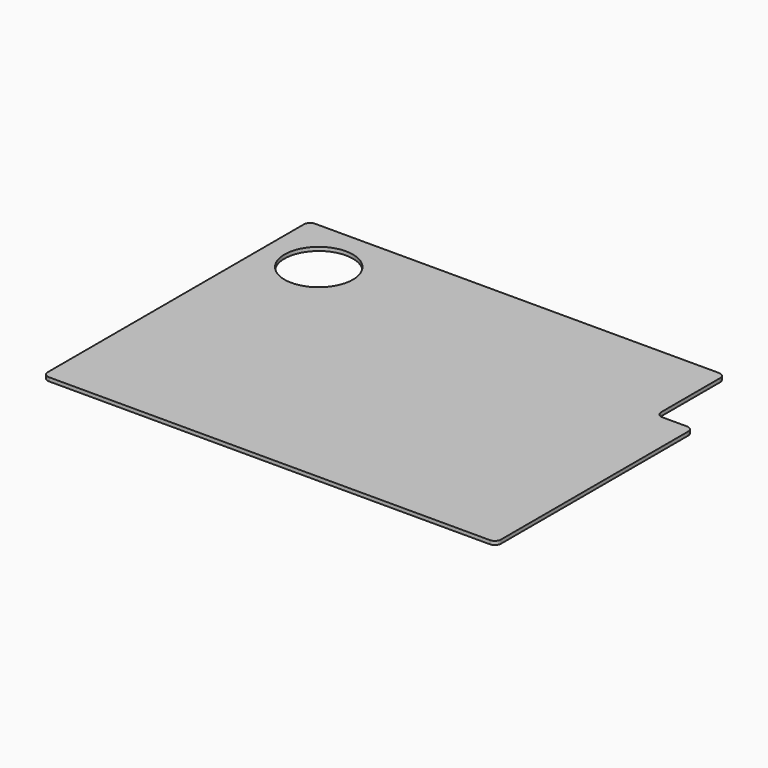
from build123d import *

# Parameters (mm, degrees)
PAD012_DEPTH         = 3
SKETCH090_R          = 27.75
POCKET039_DEPTH      = 0.001
POCKET039_DEPTH_BACK = 3.001
POCKET040_DEPTH      = 0.001
POCKET040_DEPTH_BACK = 3.001


with BuildPart() as part:
    # Sketch089 → Pad012 (new body)
    with BuildSketch(Plane.XY):
        with BuildLine():
            ThreePointArc((-184, -130), (-182.535534, -133.535534), (-179, -135))
            Line((179, -135), (-179, -135))
            ThreePointArc((179, -135), (182.535534, -133.535534), (184, -130))
            Line((184, 130), (184, -130))
            ThreePointArc((184, 130), (182.535534, 133.535534), (179, 135))
            Line((-179, 135), (179, 135))
            ThreePointArc((-179, 135), (-182.535534, 133.535534), (-184, 130))
            Line((-184, -130), (-184, 130))
        make_face()
    extrude(amount=PAD012_DEPTH)

    # Sketch090 → Pocket039 (cut, two sides)
    with BuildSketch(Plane(origin=(-140, 90, 0), x_dir=(1, 0, 0), z_dir=(0, 0, 1))) as pocket039_sk:
        Circle(SKETCH090_R)
    extrude(amount=-POCKET039_DEPTH, mode=Mode.SUBTRACT)
    extrude(pocket039_sk.sketch, amount=POCKET039_DEPTH_BACK, mode=Mode.SUBTRACT)

    # Sketch091 → Pocket040 (cut, two sides)
    with BuildSketch(Plane.XY) as pocket040_sk:
        with BuildLine():
            Line((184, 135), (149, 135))
            ThreePointArc((154, 130), (152.535534, 133.535534), (149, 135))
            Line((154, 130), (154, 70))
            ThreePointArc((154, 70), (155.464466, 66.464466), (159, 65))
            Line((159, 65), (179, 65))
            ThreePointArc((184, 60), (182.535534, 63.535534), (179, 65))
            Line((184, 60), (184, 135))
        make_face()
    extrude(amount=-POCKET040_DEPTH, mode=Mode.SUBTRACT)
    extrude(pocket040_sk.sketch, amount=POCKET040_DEPTH_BACK, mode=Mode.SUBTRACT)


solid = part.part
